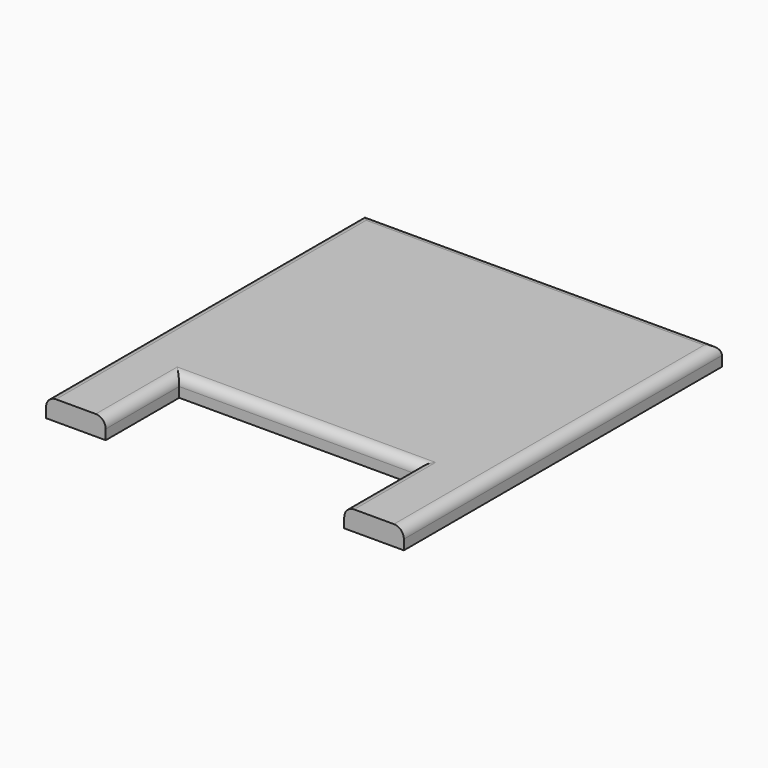
from build123d import *

# Parameters (mm, degrees)
F1_DEPTH = 2
F2_R     = 1


with BuildPart() as f1:
    # F0 (on Top) → F1 (new body)
    with BuildSketch(Plane.XY):
        Polygon((18, 18.351351), (0, 18.351351), (-18, 18.351351), (-18, -21.648649), (-12, -21.648649), (-12, -12.405405), (0, -12.405405), (12, -12.405405), (12, -21.648649), (18, -21.648649), align=None)
        Polygon((18, 18.351351), (0, 18.351351), (-18, 18.351351), (-18, -21.648649), (-12, -21.648649), (-12, -12.405405), (0, -12.405405), (12, -12.405405), (12, -21.648649), (18, -21.648649), align=None)
    extrude(amount=F1_DEPTH)

    # F2
    f2_edges = [f1.edges().sort_by_distance(p)[0] for p in [
        (-18, -1.648649, 2),
        (18, -1.648649, 2),
        (12, -17.027027, 2),
        (0, -12.405405, 2),
        (-12, -17.027027, 2),
        (0, 18.351351, 2),
    ]]
    fillet(f2_edges, radius=F2_R)


solid = f1.part
